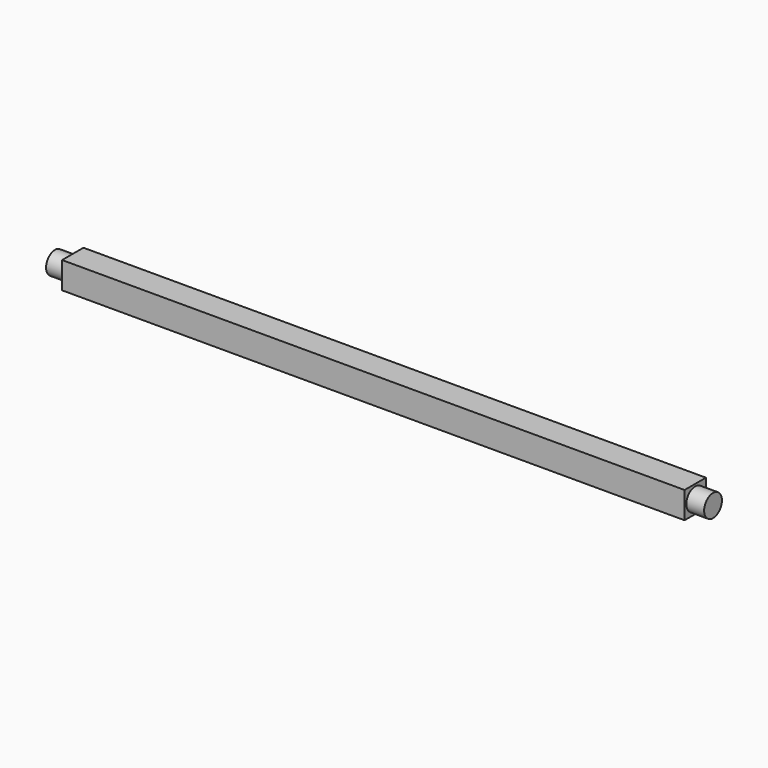
from build123d import *

# Parameters (mm, degrees)
F0_W     = 177.8
F0_H     = 7.62
F1_DEPTH = 7.62
F2_R     = 3.175
F3_DEPTH = 5.08
F4_R     = 3.175
F5_DEPTH = 5.08


with BuildPart() as f1:
    # F0 (on Top) → F1 (new body)
    with BuildSketch(Plane.XY):
        Rectangle(F0_W, F0_H)
    extrude(amount=F1_DEPTH)

    # F2 (on face) → F3 (join)
    with BuildSketch(Plane.YZ.offset(88.9)):
        with Locations((0, 3.81)):
            Circle(F2_R)
    extrude(amount=F3_DEPTH)

    # F4 (on face) → F5 (join)
    with BuildSketch(Plane(origin=(-88.9, 0, 0), x_dir=(0, -1, 0), z_dir=(-1, 0, 0))):
        with Locations((0, 3.81)):
            Circle(F4_R)
    extrude(amount=F5_DEPTH)


solid = f1.part
